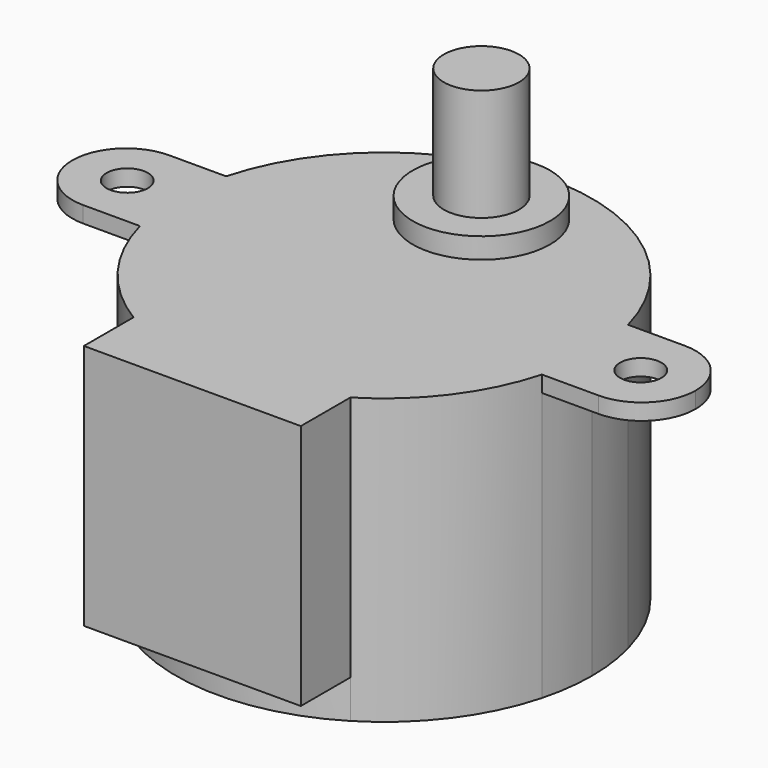
from build123d import *

# Parameters (mm, degrees)
F0_R     = 4.65
F0_R_2   = 2.55
F1_DEPTH = 1.4
F2_DEPTH = 9
F3_DEPTH = 19.3
F4_DEPTH = 16.7
F0_R_3   = 1.4
F5_DEPTH = 1.1


with BuildPart() as f1:
    # F0 (on Top) → F1 (new body)
    with BuildSketch(Plane.XY):
        with Locations((0, 8.25)):
            Circle(F0_R)
        with Locations((0, 8.25)):
            Circle(F0_R_2, mode=Mode.SUBTRACT)
    extrude(amount=F1_DEPTH)

    # F0 (on Top) → F2 (join)
    with BuildSketch(Plane.XY):
        with Locations((0, 8.25)):
            Circle(F0_R_2)
    extrude(amount=F2_DEPTH)

    # F0 (on Top) → F3 (join)
    with BuildSketch(Plane.XY):
        with BuildLine():
            ThreePointArc((-7.35, -12.0327677614), (0, -14.1), (7.35, -12.0327677614))
            Line((7.35, -12.0327677614), (-7.35, -12.0327677614))
        make_face()
        with BuildLine():
            Line((13.6193795747, -3.65), (13.6193795747, 3.65))
            ThreePointArc((13.6193795747, 3.65), (0, 14.1), (-13.6193795747, 3.65))
            ThreePointArc((-13.6193795747, 3.65), (-14.1, 0), (-13.6193795747, -3.65))
            ThreePointArc((-13.6193795747, -3.65), (-11.2914312101, -8.4447368951), (-7.35, -12.0327677614))
            Line((-7.35, -12.0327677614), (7.35, -12.0327677614))
            ThreePointArc((7.35, -12.0327677614), (11.2914312101, -8.4447368951), (13.6193795747, -3.65))
        make_face()
        with Locations((0, 8.25)):
            Circle(F0_R, mode=Mode.SUBTRACT)
        with Locations((0, 8.25)):
            Circle(F0_R)
        with Locations((0, 8.25)):
            Circle(F0_R_2, mode=Mode.SUBTRACT)
        with Locations((0, 8.25)):
            Circle(F0_R_2)
        with BuildLine():
            ThreePointArc((13.6193795747, -3.65), (13.9793285247, -1.8407536495), (14.1, 0))
            ThreePointArc((14.1, 0), (13.9793285247, 1.8407536495), (13.6193795747, 3.65))
            Line((13.6193795747, 3.65), (13.6193795747, -3.65))
        make_face()
    extrude(amount=-F3_DEPTH)

    # F0 (on Top) → F4 (join)
    with BuildSketch(Plane.XY):
        with BuildLine():
            Line((7.35, -16.2327677614), (7.35, -12.0327677614))
            ThreePointArc((7.35, -12.0327677614), (0, -14.1), (-7.35, -12.0327677614))
            Line((-7.35, -12.0327677614), (-7.35, -16.2327677614))
            Line((-7.35, -16.2327677614), (7.35, -16.2327677614))
        make_face()
    extrude(amount=-F4_DEPTH)

    # F0 (on Top) → F5 (join)
    with BuildSketch(Plane.XY):
        with BuildLine():
            ThreePointArc((-13.6193795747, -3.65), (-14.1, 0), (-13.6193795747, 3.65))
            Line((-13.6193795747, 3.65), (-17.4693795747, 3.65))
            ThreePointArc((-17.4693795747, 3.65), (-20.050319326, 2.5809397513), (-21.1193795747, 0))
            ThreePointArc((-21.1193795747, 0), (-20.050319326, -2.5809397513), (-17.4693795747, -3.65))
            Line((-17.4693795747, -3.65), (-13.6193795747, -3.65))
        make_face()
        with Locations((-17.4, 0)):
            Circle(F0_R_3, mode=Mode.SUBTRACT)
        with BuildLine():
            ThreePointArc((13.6193795747, 3.65), (13.9793285247, 1.8407536495), (14.1, 0))
            ThreePointArc((14.1, 0), (13.9793285247, -1.8407536495), (13.6193795747, -3.65))
            Line((13.6193795747, -3.65), (17.4693795747, -3.65))
            ThreePointArc((17.4693795747, -3.65), (20.050319326, -2.5809397513), (21.1193795747, 0))
            ThreePointArc((21.1193795747, 0), (20.050319326, 2.5809397513), (17.4693795747, 3.65))
            Line((17.4693795747, 3.65), (13.6193795747, 3.65))
        make_face()
        with Locations((17.4, 0)):
            Circle(F0_R_3, mode=Mode.SUBTRACT)
    extrude(amount=-F5_DEPTH)


solid = f1.part
